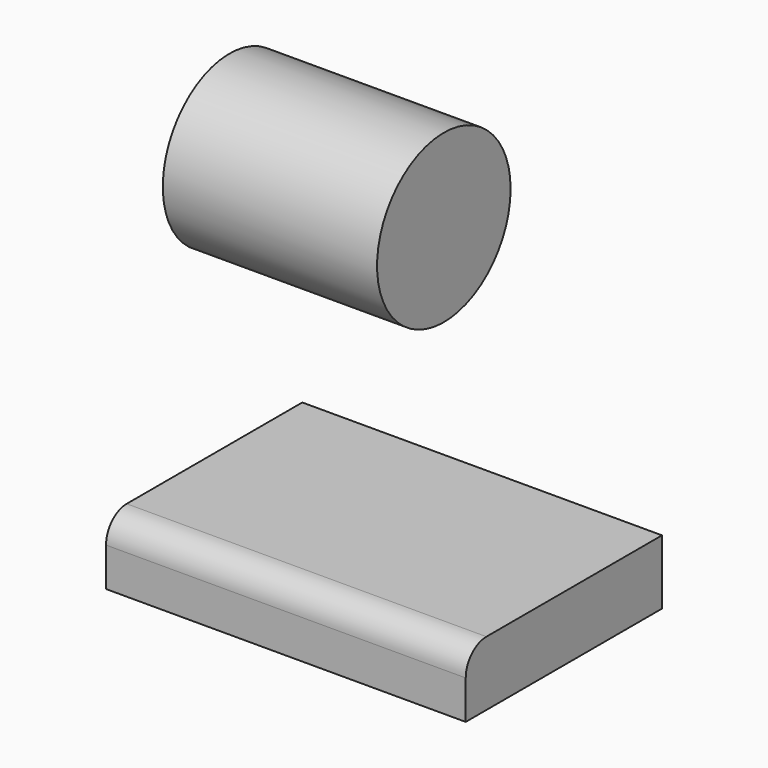
from build123d import *

# Parameters (mm, degrees)
F0_W     = 70.776656
F0_H     = 48.269648
F1_DEPTH = 12.7
F2_R     = 5.08
F3_R     = 16.417002
F4_DEPTH = 42.164


with BuildPart() as f1:
    # F0 (on Top) → F1 (new body)
    with BuildSketch(Plane.XY):
        Rectangle(F0_W, F0_H)
    extrude(amount=F1_DEPTH)

    # F2
    f2_edges = [f1.edges().sort_by_distance(p)[0] for p in [
        (0, -24.134824, 12.7),
    ]]
    fillet(f2_edges, radius=F2_R)


with BuildPart() as f4:
    # F3 (on Right) → F4 (new body)
    with BuildSketch(Plane.YZ):
        with Locations((14.717753, 58.352273)):
            Circle(F3_R)
    extrude(amount=-F4_DEPTH)


solid = Compound([f1.part, f4.part])
